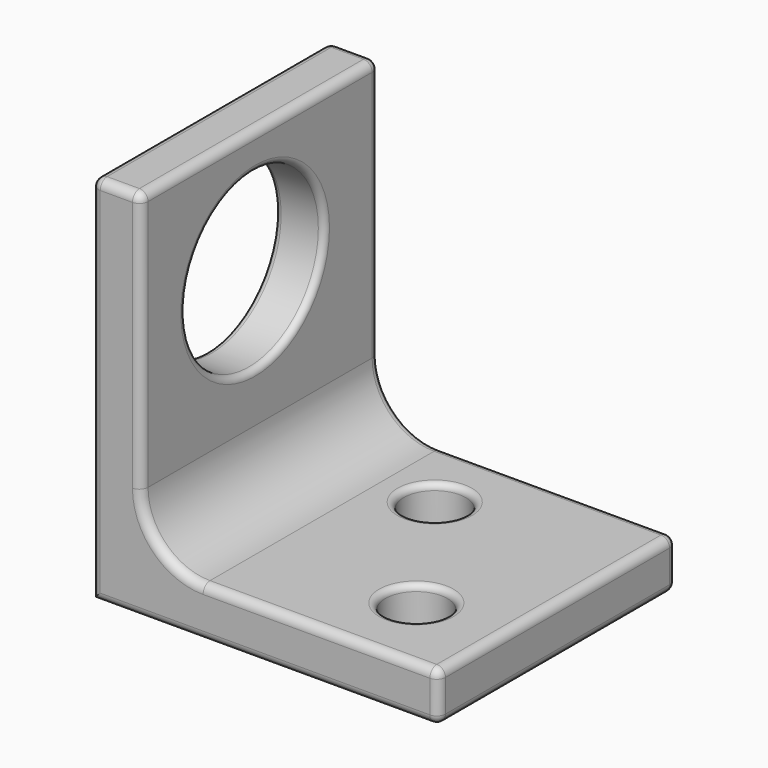
from build123d import *

# Parameters (mm, degrees)
F1_DEPTH = 24
F2_R     = 2.5
F3_DEPTH = 25
F4_R     = 7
F5_DEPTH = 25
F6_R     = 5
F7_R     = 0.7
F8_R     = 0.5


with BuildPart() as f1:
    # F0 (on Front) → F1 (new body)
    with BuildSketch(Plane.XZ):
        Polygon((0, 4), (-24, 4), (-24, 30), (-28, 30), (-28, 0), (0, 0), align=None)
        Polygon((0, 4), (-24, 4), (-24, 30), (-28, 30), (-28, 0), (0, 0), align=None)
    extrude(amount=-F1_DEPTH)

    # F2 (on face) → F3 (cut)
    with BuildSketch(Plane.XY.offset(4)):
        with Locations((-14.651088044, 17.9306399077)):
            Circle(F2_R)
        with Locations((-6.9495881908, 6.4483168535)):
            Circle(F2_R)
    extrude(amount=-F3_DEPTH, mode=Mode.SUBTRACT)

    # F4 (on face) → F5 (cut)
    with BuildSketch(Plane.YZ.offset(-24)):
        with Locations((11.5, 20)):
            Circle(F4_R)
    extrude(amount=-F5_DEPTH, mode=Mode.SUBTRACT)

    # F6
    f6_edges = [f1.edges().sort_by_distance(p)[0] for p in [
        (-24, 12, 4),
    ]]
    fillet(f6_edges, radius=F6_R)

    # F7
    f7_edges = [f1.edges().sort_by_distance(p)[0] for p in [
        (-24, 12, 30),
        (-28, 12, 30),
        (-26, 0, 30),
        (-26, 24, 30),
        (-9.5, 0, 4),
        (-22.535534, 0, 5.464466),
        (0, 0, 2),
        (-24, 0, 19.5),
        (-14, 0, 0),
        (-28, 0, 15),
        (0, 12, 0),
        (0, 12, 4),
        (0, 24, 2),
        (-9.5, 24, 4),
        (-22.535534, 24, 5.464466),
        (-24, 24, 19.5),
        (-14, 24, 0),
        (-28, 24, 15),
    ]]
    fillet(f7_edges, radius=F7_R)

    # F8
    f8_edges = [f1.edges().sort_by_distance(p)[0] for p in [
        (-17.151088, 17.93064, 0),
        (-9.449588, 6.448317, 4),
        (-17.151088, 17.93064, 4),
        (-24, 4.5, 20),
        (-26, 18.5, 20),
        (-28, 4.5, 20),
    ]]
    fillet(f8_edges, radius=F8_R)


solid = f1.part
